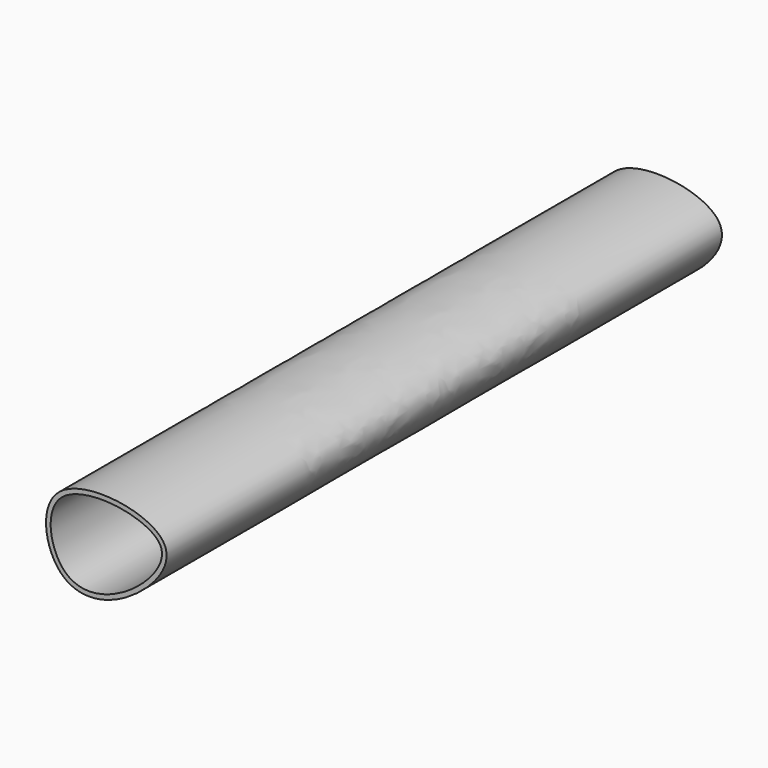
from build123d import *

# Parameters (mm, degrees)
F1_DEPTH = 381
F2_T     = -2.54


with BuildPart() as f1:
    # F0 (on Front) → F1 (new body)
    with BuildSketch(Plane.XZ):
        with BuildLine():
            add(Edge.make_bspline(
                [(0, 0), (13.7729789611, 8.0106739459), (42.5290499963, 41.2725435136), (-52.1782677935, 54.5141846001), (-41.6462789912, -10.215652155), (-13.1901000124, -7.6716584561), (0, 0)],
                knots=[0, 0, 0, 0, 0.239616036, 0.5306613846, 0.7705246273, 1, 1, 1, 1], degree=3))
        make_face()
    extrude(amount=F1_DEPTH)

    # F2
    f2_openings = [f1.faces().sort_by_distance(p)[0] for p in [
        (-12.818411, -381, 21.047939),
    ]]
    offset(amount=F2_T, openings=f2_openings)


solid = f1.part
